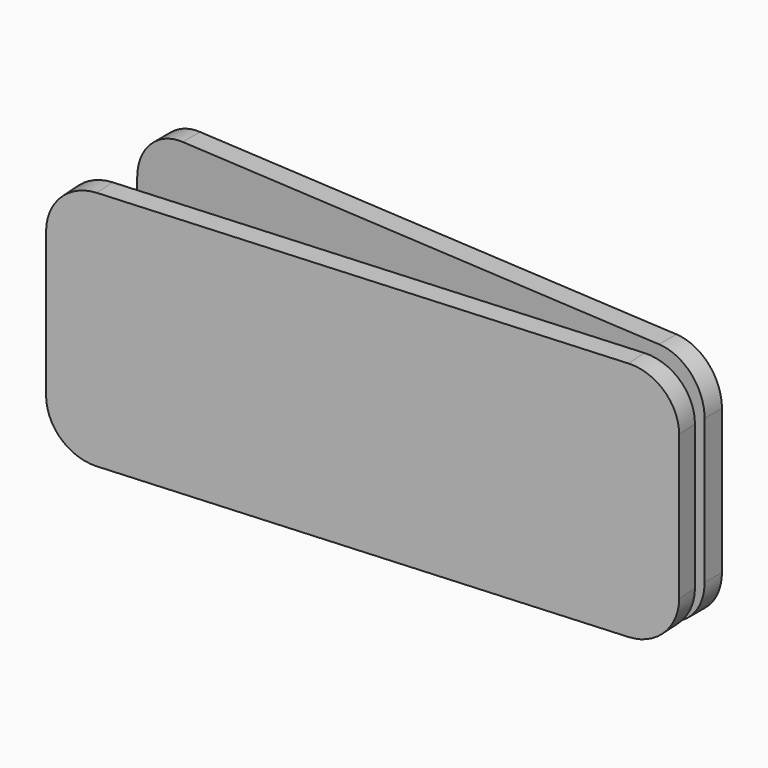
from build123d import *

# Parameters (mm, degrees)
F1_DEPTH = 12.7
F2_R     = 3.048
F3_DEPTH = 6.35
F4_R     = 5.08
F4_2_R   = 5.08


with BuildPart() as f1:
    # F0 (on Top) → F1 (new body, symmetric)
    with BuildSketch(Plane.XY):
        Polygon((-63.3489005822, 4.1792615378), (0, -0.1987283007), (0, 2.0872716993), (-63.3489005822, 6.4652615378), align=None)
    extrude(amount=F1_DEPTH, both=True)

    # F4
    f4_edges = [f1.edges().sort_by_distance(p)[0] for p in [
        (0, 0.944272, 12.7),
        (0, 0.944272, -12.7),
        (-63.348901, 5.322262, 12.7),
        (-63.348901, 5.322262, -12.7),
    ]]
    fillet(f4_edges, radius=F4_R)


with BuildPart() as f1b:
    # F0 (on Top) → F1, piece 2 (new body, symmetric)
    with BuildSketch(Plane.XY):
        Polygon((0.1537269254, -3.749553597), (0, -1.4687283007), (-63.3562582316, -5.7389206721), (-63.2025313062, -8.0197459685), align=None)
    extrude(amount=F1_DEPTH, both=True)

    # F4#2
    f4_2_edges = [f1b.edges().sort_by_distance(p)[0] for p in [
        (0.076863, -2.609141, 12.7),
        (0.076863, -2.609141, -12.7),
        (-63.279395, -6.879333, 12.7),
        (-63.279395, -6.879333, -12.7),
    ]]
    fillet(f4_2_edges, radius=F4_2_R)


with BuildPart() as f3:
    # F2 (on Top) → F3 (new body, symmetric)
    with BuildSketch(Plane.XY):
        with Locations((-35.2321863174, -0.7984223776)):
            Circle(F2_R)
    extrude(amount=F3_DEPTH, both=True)


with BuildPart() as f3b:
    # F2 (on Top) → F3, piece 2 (new body, symmetric)
    with BuildSketch(Plane.XY):
        with BuildLine():
            Line((-52.5990128517, 8.6360052228), (-52.5990128517, 5.6607332081))
            Line((-52.5990128517, 5.6607332081), (-46.5642656517, 5.6607332081))
            Line((-46.5642656517, 5.6607332081), (-46.5642656517, 8.6360052228))
            Line((-46.5642656517, 8.6360052228), (-49.1042656517, 8.6360052228))
            Line((-49.1042656517, 8.6360052228), (-49.1042656517, 7.5197662227))
            add(Edge.make_bspline(
                [(-50.0590128517, 7.5197662227), (-50.2991710754, 7.3525333206), (-50.7703997584, 7.0243957328), (-50.5695007818, 6.0865020248), (-49.6663013324, 5.8120882742), (-48.7216894107, 5.92591807), (-48.474219616, 6.8851035433), (-48.8907623894, 7.3046985215), (-49.1042656517, 7.5197662227)],
                knots=[0, 0, 0, 0, 0.1654287466, 0.3245975474, 0.4975700997, 0.6675808428, 0.8296151582, 1, 1, 1, 1], degree=3))
            Line((-50.0590128517, 7.5197662227), (-50.0590128517, 8.6360052228))
            Line((-50.0590128517, 8.6360052228), (-52.5990128517, 8.6360052228))
        make_face()
    extrude(amount=F3_DEPTH, both=True)


solid = Compound([f1.part, f1b.part, f3.part, f3b.part])
